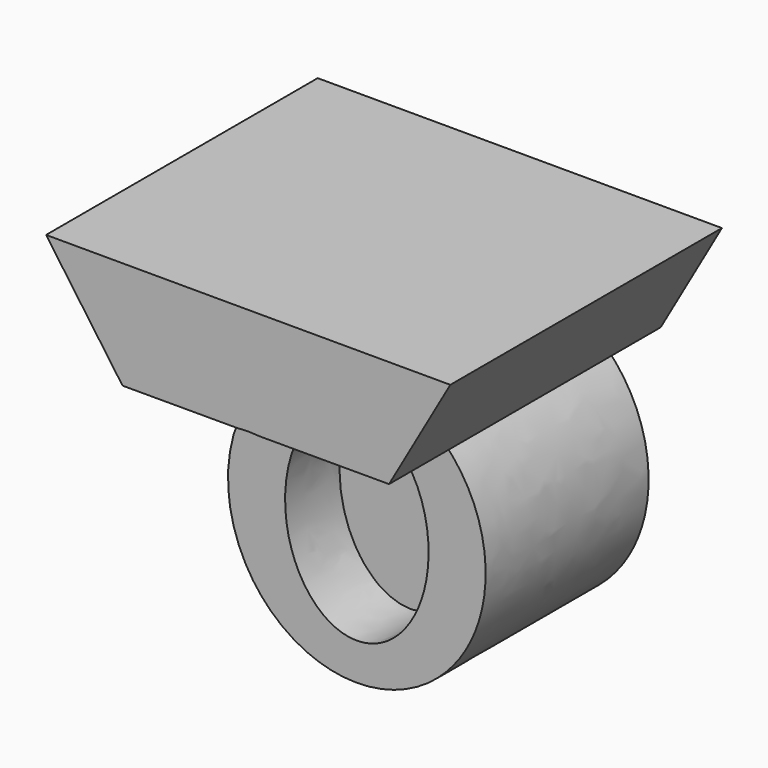
from build123d import *

# Parameters (mm, degrees)
F1_DEPTH = 127
F2_DEPTH = 50.8
F3_DEPTH = 76.2


with BuildPart() as f1:
    # F0 (on Front) → F1 (new body)
    with BuildSketch(Plane.XZ):
        with BuildLine():
            Line((52.687127, 35.74498), (75.603083, 75.896882))
            Line((75.603083, 75.896882), (-75.603083, 76.092742))
            Line((-75.603083, 76.092742), (-47.007099, 35.74498))
            Line((-47.007099, 35.74498), (-4.190044, 35.74498))
            add(Edge.make_bspline(
                [(0, 35.940845), (-2.098997, 35.940845), (-4.190044, 35.74498)],
                knots=[0, 0, 0, 0.087067, 0.087067, 0.087067], degree=2, weights=[1, 0.999053, 1]))
            add(Edge.make_bspline(
                [(4.190044, 35.74498), (2.098997, 35.940845), (0, 35.940845)],
                knots=[6.196119, 6.196119, 6.196119, 6.283185, 6.283185, 6.283185], degree=2, weights=[1, 0.999053, 1]))
            Line((4.190044, 35.74498), (52.687127, 35.74498))
        make_face()
    extrude(amount=F1_DEPTH)


with BuildPart() as f2:
    # F0 (on Front) → F2 (new body)
    with BuildSketch(Plane.XZ):
        with BuildLine():
            add(Edge.make_bspline(
                [(0, 22.034578), (-46.486488, 22.034578), (-23.243244, -34.667734), (0, -91.370046), (23.243244, -34.667734), (46.486488, 22.034578), (0, 22.034578)],
                knots=[0, 0, 0, 2.094395, 2.094395, 4.18879, 4.18879, 6.283185, 6.283185, 6.283185], degree=2, weights=[1, 0.5, 1, 0.5, 1, 0.5, 1]))
        make_face()
    extrude(amount=F2_DEPTH)


with BuildPart() as f3:
    # F0 (on Front) → F3 (new body)
    with BuildSketch(Plane.XZ):
        with BuildLine():
            add(Edge.make_bspline(
                [(-4.190044, 35.74498), (-82.02614, 28.454212), (-41.01307, -42.909421), (0, -114.273054), (41.01307, -42.909421), (82.02614, 28.454212), (4.190044, 35.74498)],
                knots=[0.087067, 0.087067, 0.087067, 2.123417, 2.123417, 4.159768, 4.159768, 6.196119, 6.196119, 6.196119], degree=2, weights=[1, 0.52492, 1, 0.52492, 1, 0.52492, 1]))
            Line((4.190044, 35.74498), (-4.190044, 35.74498))
        make_face()
        with BuildLine():
            add(Edge.make_bspline(
                [(0, 22.034578), (-46.486488, 22.034578), (-23.243244, -34.667734), (0, -91.370046), (23.243244, -34.667734), (46.486488, 22.034578), (0, 22.034578)],
                knots=[0, 0, 0, 2.094395, 2.094395, 4.18879, 4.18879, 6.283185, 6.283185, 6.283185], degree=2, weights=[1, 0.5, 1, 0.5, 1, 0.5, 1]))
        make_face(mode=Mode.SUBTRACT)
    extrude(amount=F3_DEPTH)


solid = Compound([f1.part, f2.part, f3.part])
